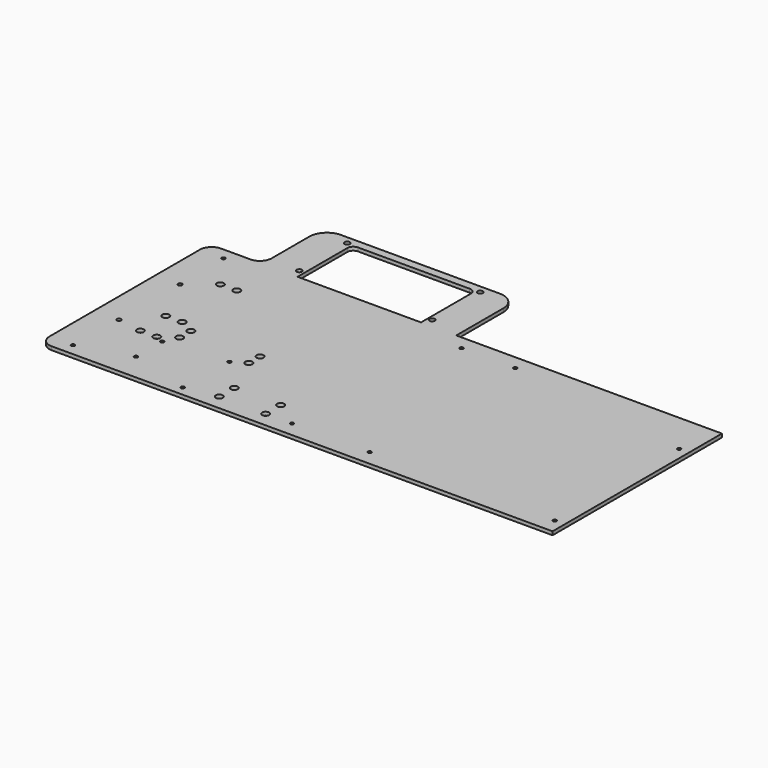
from build123d import *

# Parameters (mm, degrees)
F0_R     = 1.5
F0_R_2   = 1.75
F0_R_3   = 3
F0_R_4   = 2.25
F1_DEPTH = 3
F2_R     = 10


with BuildPart() as f1:
    # F0 (on Top) → F1 (new body)
    with BuildSketch(Plane.XY):
        Polygon((-98.527142, 58.947858), (-143.527142, 58.947858), (-143.527142, -121.052142), (292.312858, -121.052142), (292.312858, 58.947858), (66.472858, 58.947858), (37.065691, 58.947858), (36.472858, 58.947858), (-61.047302, 58.947858), (-68.527142, 58.947858), (-82.527142, 58.947858), align=None)
        with Locations((-123.527142, -111.052142)):
            Circle(F0_R, mode=Mode.SUBTRACT)
        with Locations((-80.505746, -97.758102)):
            Circle(F0_R, mode=Mode.SUBTRACT)
        with Locations((-122.527142, -63.357762)):
            Circle(F0_R_2, mode=Mode.SUBTRACT)
        with Locations((-101.620162, -66.783403)):
            Circle(F0_R_3, mode=Mode.SUBTRACT)
        with Locations((-80.505746, -69.858102)):
            Circle(F0_R, mode=Mode.SUBTRACT)
        with Locations((-87.620162, -66.800927)):
            Circle(F0_R_3, mode=Mode.SUBTRACT)
        with Locations((-28.705746, -112.958102)):
            Circle(F0_R, mode=Mode.SUBTRACT)
        with Locations((-1.473066, -108.033152)):
            Circle(F0_R_3, mode=Mode.SUBTRACT)
        with Locations((-1.511878, -92.033152)):
            Circle(F0_R_3, mode=Mode.SUBTRACT)
        with Locations((38.021046, -108.074085)):
            Circle(F0_R_3, mode=Mode.SUBTRACT)
        with Locations((60.352858, -108.052142)):
            Circle(F0_R, mode=Mode.SUBTRACT)
        with Locations((37.982234, -92.074085)):
            Circle(F0_R_3, mode=Mode.SUBTRACT)
        with Locations((-27.405746, -64.758102)):
            Circle(F0_R, mode=Mode.SUBTRACT)
        with Locations((-101.711931, -39.609106)):
            Circle(F0_R_3, mode=Mode.SUBTRACT)
        with Locations((-75.098688, -58.131346)):
            Circle(F0_R_3, mode=Mode.SUBTRACT)
        with Locations((-75.137501, -46.131346)):
            Circle(F0_R_3, mode=Mode.SUBTRACT)
        with Locations((-87.711931, -39.62663)):
            Circle(F0_R_3, mode=Mode.SUBTRACT)
        with Locations((-16.353202, -58.045922)):
            Circle(F0_R_3, mode=Mode.SUBTRACT)
        with Locations((-16.392014, -46.045922)):
            Circle(F0_R_3, mode=Mode.SUBTRACT)
        with Locations((126.392858, -108.052142)):
            Circle(F0_R, mode=Mode.SUBTRACT)
        with Locations((283.872858, -108.052142)):
            Circle(F0_R, mode=Mode.SUBTRACT)
        with Locations((-122.527142, 1.642238)):
            Circle(F0_R_2, mode=Mode.SUBTRACT)
        with Locations((-101.749438, 18.425813)):
            Circle(F0_R_3, mode=Mode.SUBTRACT)
        with Locations((-87.749438, 18.40829)):
            Circle(F0_R_3, mode=Mode.SUBTRACT)
        with Locations((-123.527142, 48.947858)):
            Circle(F0_R, mode=Mode.SUBTRACT)
        with Locations((80.672858, 46.787858)):
            Circle(F0_R, mode=Mode.SUBTRACT)
        with Locations((126.392858, 46.787858)):
            Circle(F0_R, mode=Mode.SUBTRACT)
        with Locations((283.872858, 23.937858)):
            Circle(F0_R, mode=Mode.SUBTRACT)
        with BuildLine():
            Line((-98.527142, 108.947858), (-98.527142, 58.947858))
            Line((-98.527142, 58.947858), (-82.527142, 58.947858))
            Line((-82.527142, 58.947858), (-68.527142, 58.947858))
            Line((-68.527142, 58.947858), (-68.527142, 111.947858))
            ThreePointArc((-68.527142, 111.947858), (-67.062675, 115.483392), (-63.527142, 116.947858))
            Line((-63.527142, 116.947858), (31.472858, 116.947858))
            ThreePointArc((31.472858, 116.947858), (35.008392, 115.483392), (36.472858, 111.947858))
            Line((36.472858, 111.947858), (36.472858, 58.947858))
            Line((36.472858, 58.947858), (37.065691, 58.947858))
            Line((37.065691, 58.947858), (66.472858, 58.947858))
            Line((66.472858, 58.947858), (66.472858, 108.947858))
            ThreePointArc((66.472858, 108.947858), (62.07946, 119.55446), (51.472858, 123.947858))
            Line((51.472858, 123.947858), (-82.527142, 123.947858))
            Line((-82.527142, 123.947858), (-83.527142, 123.947858))
            ThreePointArc((-83.527142, 123.947858), (-94.133743, 119.55446), (-98.527142, 108.947858))
        make_face()
        with Locations((-73.027142, 66.447858)):
            Circle(F0_R_4, mode=Mode.SUBTRACT)
        with Locations((-73.031884, 117.447858)):
            Circle(F0_R_4, mode=Mode.SUBTRACT)
        with Locations((39.972858, 66.447858)):
            Circle(F0_R_4, mode=Mode.SUBTRACT)
        with Locations((39.968116, 117.447858)):
            Circle(F0_R_4, mode=Mode.SUBTRACT)
    extrude(amount=F1_DEPTH)

    # F2
    f2_edges = [f1.edges().sort_by_distance(p)[0] for p in [
        (-98.527142, 58.947858, 1.5),
        (-143.527142, -121.052142, 1.5),
        (-143.527142, 58.947858, 1.5),
    ]]
    fillet(f2_edges, radius=F2_R)


solid = f1.part
